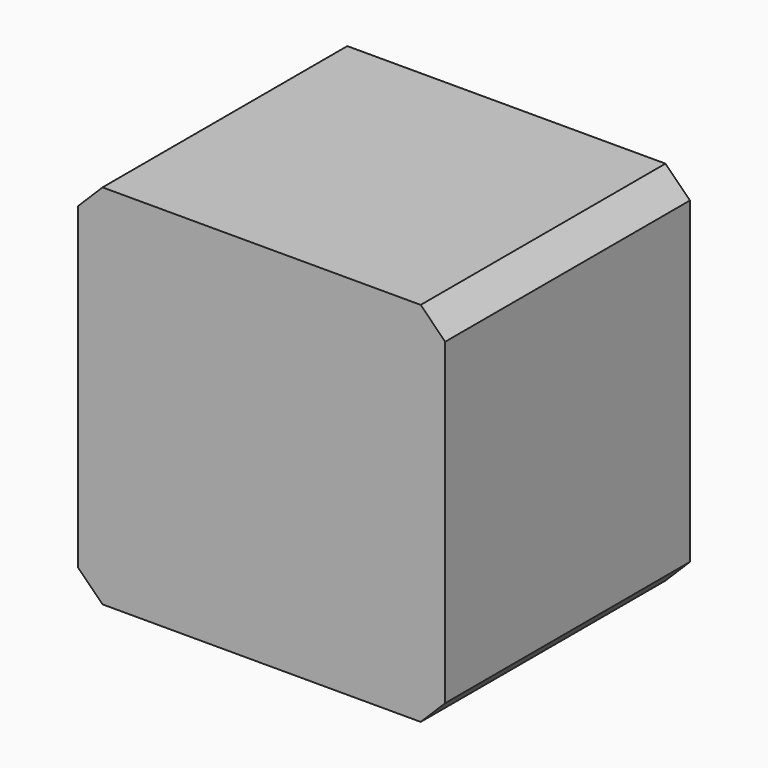
from build123d import *

# Parameters (mm, degrees)
F0_W      = 30
F0_H      = 30
F1_DEPTH  = 25
F3_R      = 6
F4_DEPTH  = 5
F5_SIZE   = 2
F6_SIZE   = 2
F7_SIZE   = 2
F2_R      = 4
F8_DEPTH  = 5
F9_R      = 4
F10_DEPTH = 5


with BuildPart() as f1:
    # F0 (on Front) → F1 (new body)
    with BuildSketch(Plane.XZ):
        with Locations((2.829975, -3.521299)):
            Rectangle(F0_W, F0_H)
    extrude(amount=F1_DEPTH)

    # F3 (on face) → F4 (join)
    with BuildSketch(Plane(origin=(0, 0, 0), x_dir=(-1, 0, 0), z_dir=(0, 1, 0))):
        with Locations((-2.829975, -3.521299)):
            Circle(F3_R)
    extrude(amount=F4_DEPTH)

    # F5
    f5_edges = [f1.edges().sort_by_distance(p)[0] for p in [
        (17.829975, -12.5, 11.478701),
    ]]
    chamfer(f5_edges, length=F5_SIZE)

    # F6
    f6_edges = [f1.edges().sort_by_distance(p)[0] for p in [
        (-12.170025, -12.5, 11.478701),
    ]]
    chamfer(f6_edges, length=F6_SIZE)

    # F7
    f7_edges = [f1.edges().sort_by_distance(p)[0] for p in [
        (-12.170025, -12.5, -18.521299),
        (17.829975, -12.5, -18.521299),
    ]]
    chamfer(f7_edges, length=F7_SIZE)

    # F2 (on face) → F8 (cut)
    with BuildSketch(Plane(origin=(0, 0, 0), x_dir=(-1, 0, 0), z_dir=(0, 1, 0))):
        with Locations((-2.829975, -3.521299)):
            Circle(F2_R)
    extrude(amount=-F8_DEPTH, mode=Mode.SUBTRACT)

    # F9 (on face) → F10 (cut)
    with BuildSketch(Plane(origin=(0, 5, 0), x_dir=(-1, 0, 0), z_dir=(0, 1, 0))):
        with Locations((-2.829975, -3.521299)):
            Circle(F9_R)
    extrude(amount=-F10_DEPTH, mode=Mode.SUBTRACT)


solid = f1.part
